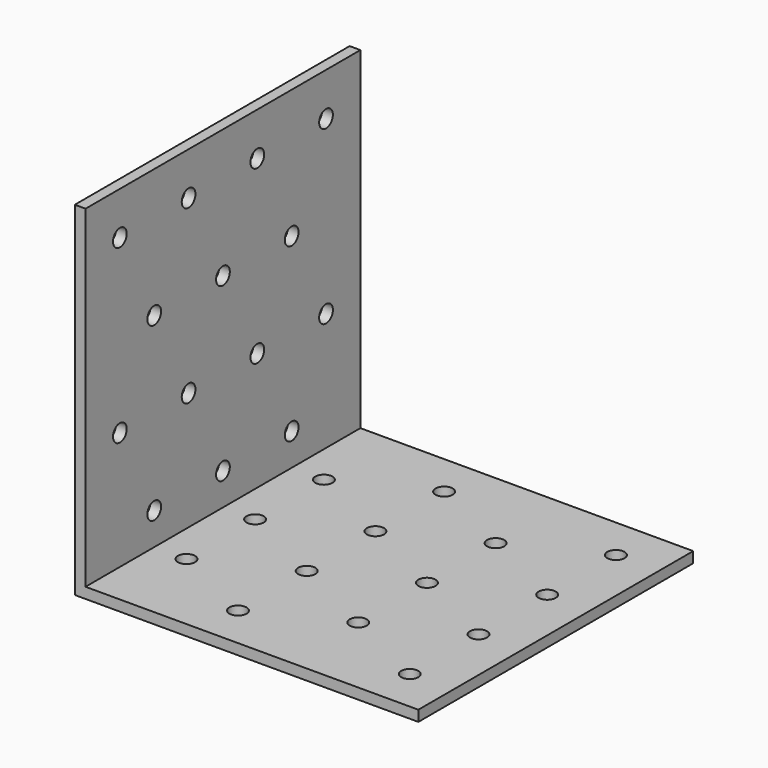
from build123d import *

# Parameters (mm, degrees)
F1_DEPTH = 80
F2_R     = 2
F3_DEPTH = 25
F4_R     = 2
F5_DEPTH = 25


with BuildPart() as f1:
    # F0 (on Front) → F1 (new body)
    with BuildSketch(Plane.XZ):
        Polygon((-43.772946, 39.948631), (-46.272946, 39.948631), (-46.272946, -37.551369), (-46.272946, -40.051369), (-43.772946, -40.051369), (33.727054, -40.051369), (33.727054, -37.551369), (-43.772946, -37.551369), align=None)
    extrude(amount=F1_DEPTH)

    # F2 (on face) → F3 (cut)
    with BuildSketch(Plane(origin=(-46.272946, 0, 0), x_dir=(0, -1, 0), z_dir=(-1, 0, 0))):
        with Locations((10, 29.948631)):
            Circle(F2_R)
        with Locations((10, -10.051369)):
            Circle(F2_R)
        with Locations((30, 29.948631)):
            Circle(F2_R)
        with Locations((30, -10.051369)):
            Circle(F2_R)
        with Locations((50, 29.948631)):
            Circle(F2_R)
        with Locations((50, -10.051369)):
            Circle(F2_R)
        with Locations((70, 29.948631)):
            Circle(F2_R)
        with Locations((70, -10.051369)):
            Circle(F2_R)
        with Locations((20, 9.948631)):
            Circle(F2_R)
        with Locations((20, -30.051369)):
            Circle(F2_R)
        with Locations((40, 9.948631)):
            Circle(F2_R)
        with Locations((40, -30.051369)):
            Circle(F2_R)
        with Locations((60, 9.948631)):
            Circle(F2_R)
        with Locations((60, -30.051369)):
            Circle(F2_R)
    extrude(amount=-F3_DEPTH, mode=Mode.SUBTRACT)

    # F4 (on face) → F5 (cut)
    with BuildSketch(Plane(origin=(0, 0, -40.051369), x_dir=(1, 0, 0), z_dir=(0, 0, -1))):
        with Locations((23.727054, 70)):
            Circle(F4_R)
        with Locations((23.727054, 50)):
            Circle(F4_R)
        with Locations((23.727054, 30)):
            Circle(F4_R)
        with Locations((23.727054, 10)):
            Circle(F4_R)
        with Locations((-16.272946, 70)):
            Circle(F4_R)
        with Locations((-16.272946, 50)):
            Circle(F4_R)
        with Locations((-16.272946, 30)):
            Circle(F4_R)
        with Locations((-16.272946, 10)):
            Circle(F4_R)
        with Locations((3.727054, 60)):
            Circle(F4_R)
        with Locations((3.727054, 40)):
            Circle(F4_R)
        with Locations((3.727054, 20)):
            Circle(F4_R)
        with Locations((-36.272946, 60)):
            Circle(F4_R)
        with Locations((-36.272946, 40)):
            Circle(F4_R)
        with Locations((-36.272946, 20)):
            Circle(F4_R)
    extrude(amount=-F5_DEPTH, mode=Mode.SUBTRACT)


solid = f1.part
